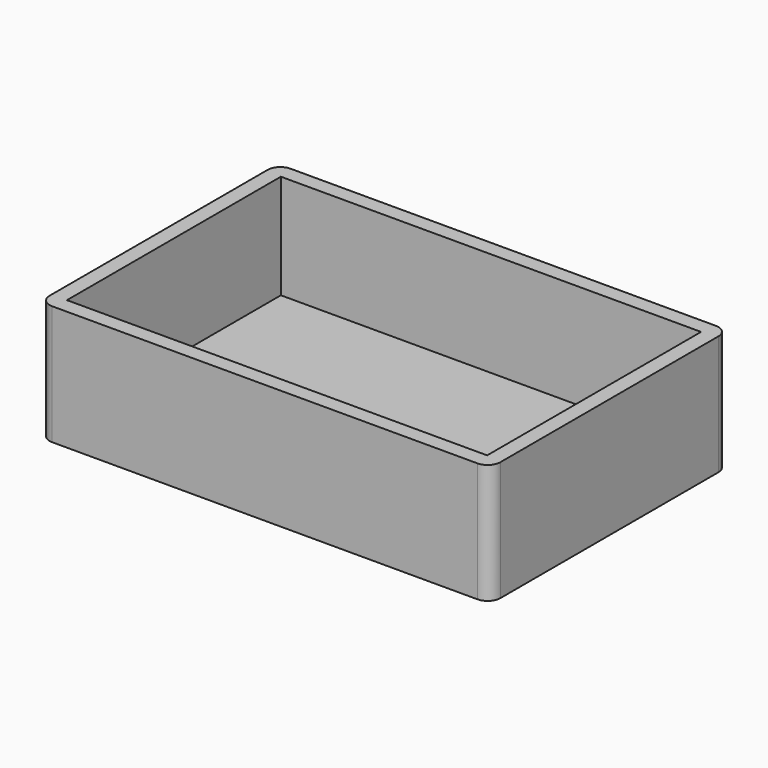
from build123d import *

# Parameters (mm, degrees)
F0_W     = 89.916
F0_H     = 59.436
F0_W_2   = 83.82
F0_H_2   = 53.34
F1_DEPTH = 3.048
F2_DEPTH = 20.828
F3_R     = 2.54


with BuildPart() as f1:
    # F0 (on Top) → F1 (new body)
    with BuildSketch(Plane.XY):
        with Locations((-44.958, 29.718)):
            Rectangle(F0_W, F0_H)
        with Locations((-44.958, 29.718)):
            Rectangle(F0_W_2, F0_H_2, mode=Mode.SUBTRACT)
        with Locations((-44.958, 29.718)):
            Rectangle(F0_W_2, F0_H_2)
    extrude(amount=-F1_DEPTH)

    # F0 (on Top) → F2 (join)
    with BuildSketch(Plane.XY):
        with Locations((-44.958, 29.718)):
            Rectangle(F0_W, F0_H)
        with Locations((-44.958, 29.718)):
            Rectangle(F0_W_2, F0_H_2, mode=Mode.SUBTRACT)
    extrude(amount=F2_DEPTH)

    # F3
    f3_edges = [f1.edges().sort_by_distance(p)[0] for p in [
        (0, 0, 8.89),
        (0, 59.436, 8.89),
        (-89.916, 59.436, 8.89),
        (-89.916, 0, 8.89),
    ]]
    fillet(f3_edges, radius=F3_R)


solid = f1.part
